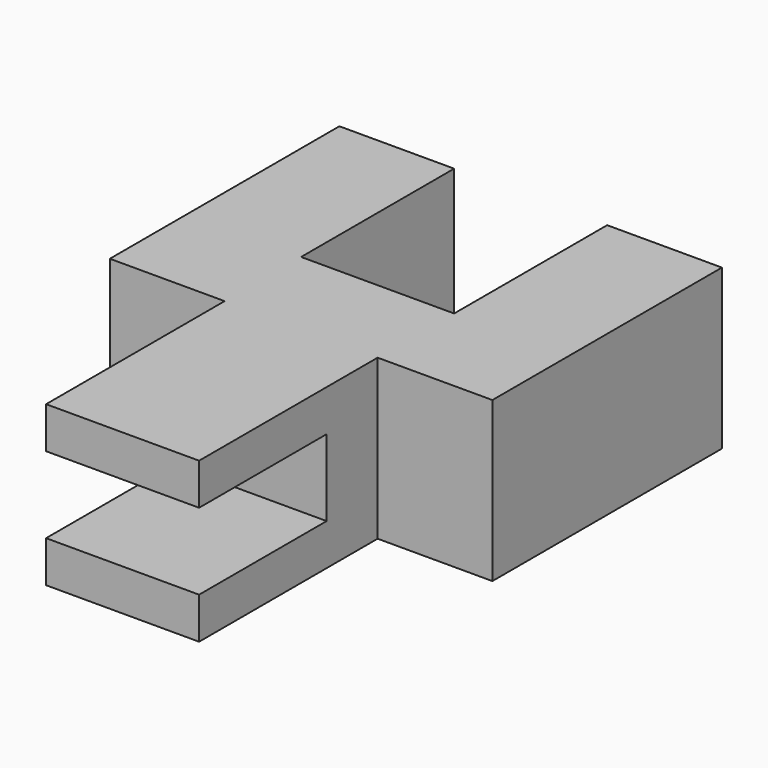
from build123d import *

# Parameters (mm, degrees)
F1_DEPTH = 25
F2_W     = 25
F2_H     = 12
F3_DEPTH = 60.001


with BuildPart() as f1:
    # F0 (on Top) → F1 (new body)
    with BuildSketch(Plane.XY):
        Polygon((0, 45), (0, 0), (18, 0), (18, -35), (42, -35), (42, 0), (60, 0), (60, 45), (42, 45), (42, 15), (18, 15), (18, 45), align=None)
    extrude(amount=F1_DEPTH)

    # F2 (on Right) → F3 (cut, through all)
    with BuildSketch(Plane.YZ):
        with Locations((-22.5, 12.5)):
            Rectangle(F2_W, F2_H)
    extrude(amount=F3_DEPTH, mode=Mode.SUBTRACT)


solid = f1.part
